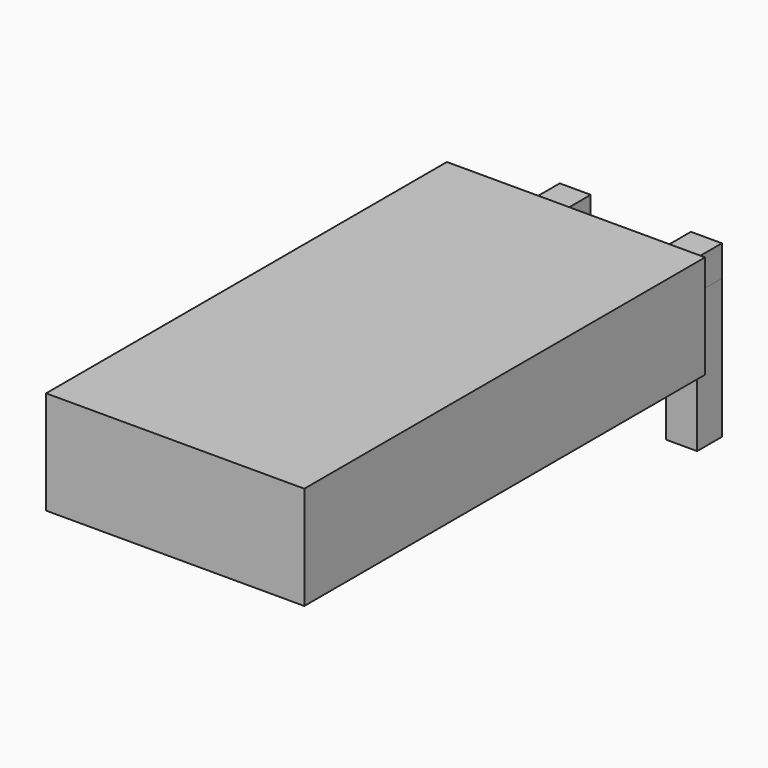
from build123d import *

# Parameters (mm, degrees)
SKETCH_W       = 0.6
SKETCH_H       = 0.6
PAD_DEPTH      = 0.7
PAD_DEPTH_BACK = 2
PAD001_DEPTH   = 0.6
SKETCH002_W    = 2.54
SKETCH002_H    = 0.6
PAD002_DEPTH   = 1
SKETCH004_W    = 5
SKETCH004_H    = 2
PAD003_DEPTH   = 9.7


with BuildPart() as pad:
    # Sketch → Pad (new body, two sides)
    with BuildSketch(Plane.XY) as pad_sk:
        Rectangle(SKETCH_W, SKETCH_H)
        with Locations((2.54, 0)):
            Rectangle(SKETCH_W, SKETCH_H)
    extrude(amount=PAD_DEPTH)
    extrude(pad_sk.sketch, amount=-PAD_DEPTH_BACK)


with BuildPart() as pad001:
    # Sketch001 → Pad001 (new body)
    with BuildSketch(Plane.XY.offset(0.7)):
        Polygon((0.3, 0.3), (-0.3, 0.3), (-0.3, -0.3), (0, -1.77), (0.6, -1.77), (0.3, -0.3), align=None)
        Polygon((2.84, 0.3), (2.24, 0.3), (2.24, -0.3), (1.94, -1.77), (2.54, -1.77), (2.84, -0.3), align=None)
    extrude(amount=PAD001_DEPTH)


with BuildPart() as pad002:
    # Sketch002 → Pad002 (new body)
    with BuildSketch(Plane.XZ.offset(1.77)):
        with Locations((1.27, 1)):
            Rectangle(SKETCH002_W, SKETCH002_H)
    extrude(amount=PAD002_DEPTH)


with BuildPart() as pad003:
    # Sketch004 → Pad003 (new body)
    with BuildSketch(Plane.XZ.offset(1.27)):
        with Locations((1.27, 1)):
            Rectangle(SKETCH004_W, SKETCH004_H)
    extrude(amount=PAD003_DEPTH)


with BuildPart() as revolution001:
    # Sketch005 → Revolution001 (revolve)
    with BuildSketch(Plane.YZ.offset(1.27)):
        Polygon((-2.47, 1), (-2.97, 1), (-2.97, 1.5), align=None)
    revolve(axis=Axis((1.27, -3.977201, 1), (0, -1, 0)))


solid = Compound([pad.part, pad001.part, pad002.part, pad003.part, revolution001.part])
